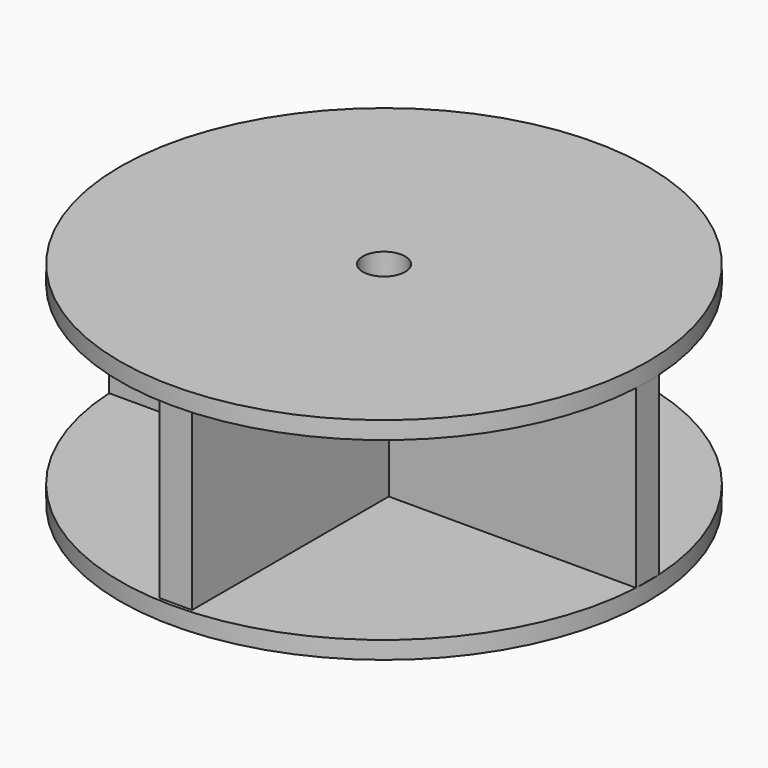
from build123d import *

# Parameters (mm, degrees)
F0_R     = 37.5
F1_DEPTH = 2.5
F2_W     = 74.8896048808
F2_H     = 4.0678103206
F3_DEPTH = 25
F4_W     = 4.6082469635
F4_H     = 73.9512071013
F5_DEPTH = 25
F6_R     = 37.5
F7_DEPTH = 2.5
F9_D     = 6


with BuildPart() as f1:
    # F0 (on Top) → F1 (new body)
    with BuildSketch(Plane.XY):
        Circle(F0_R)
    extrude(amount=F1_DEPTH)

    # F2 (on face) → F3 (join)
    with BuildSketch(Plane.XY.offset(2.5)):
        Rectangle(F2_W, F2_H)
    extrude(amount=F3_DEPTH)

    # F4 (on face) → F5 (join)
    with BuildSketch(Plane.XY.offset(2.5)):
        Rectangle(F4_W, F4_H)
    extrude(amount=F5_DEPTH)

    # F6 (on face) → F7 (join)
    with BuildSketch(Plane.XY.offset(27.5)):
        Circle(F6_R)
    extrude(amount=F7_DEPTH)

    # F9 (through all)
    with Locations(Plane.XY.offset(30)):
        with Locations((0, 0)):
            Hole(F9_D / 2)


solid = f1.part
